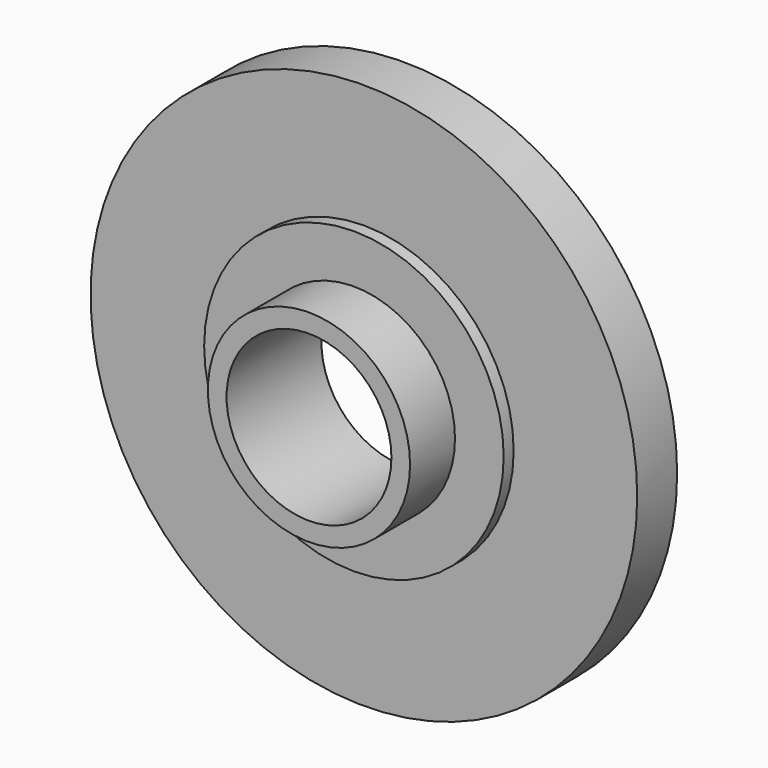
from build123d import *

# Parameters (mm, degrees)
F0_R     = 10.95
F0_R_2   = 7.95
F1_DEPTH = 2
F0_R_3   = 6
F2_DEPTH = 2
F0_R_4   = 4.05
F3_DEPTH = 2.5
F0_R_5   = 3.302
F4_DEPTH = 4.75


with BuildPart() as f1:
    # F0 (on Front) → F1 (new body)
    with BuildSketch(Plane.XZ):
        Circle(F0_R)
        Circle(F0_R_2, mode=Mode.SUBTRACT)
    extrude(amount=F1_DEPTH)

    # F0 (on Front) → F2 (join)
    with BuildSketch(Plane.XZ):
        Circle(F0_R_2)
        Circle(F0_R_3, mode=Mode.SUBTRACT)
    extrude(amount=F2_DEPTH)

    # F0 (on Front) → F3 (join)
    with BuildSketch(Plane.XZ):
        Circle(F0_R_3)
        Circle(F0_R_4, mode=Mode.SUBTRACT)
    extrude(amount=F3_DEPTH)

    # F0 (on Front) → F4 (join)
    with BuildSketch(Plane.XZ):
        Circle(F0_R_4)
        Circle(F0_R_5, mode=Mode.SUBTRACT)
    extrude(amount=F4_DEPTH)


solid = f1.part
